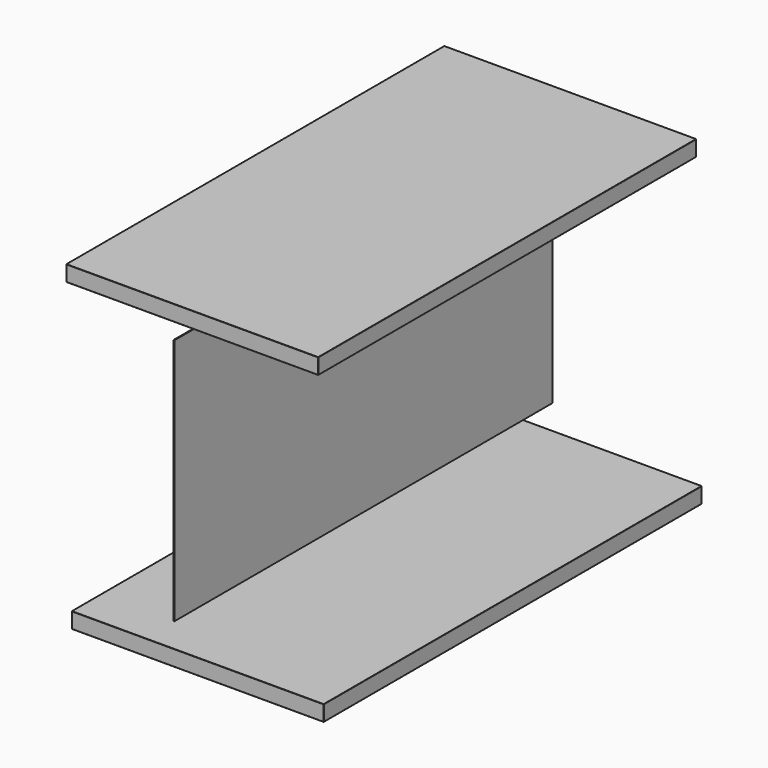
from build123d import *

# Parameters (mm, degrees)
F0_W     = 160
F0_H     = 10
F0_W_2   = 0.57
F0_H_2   = 157
F1_DEPTH = 300
F2_R     = 0.2


with BuildPart() as f1:
    # F0 (on Front) → F1 (new body)
    with BuildSketch(Plane.XZ):
        with Locations((3.251087, -81.963439)):
            Rectangle(F0_W, F0_H)
        with Locations((-11.832677, 17.02495)):
            Rectangle(F0_W_2, F0_H_2)
        with Locations((-0.217361, 110.769269)):
            Rectangle(F0_W, F0_H)
    extrude(amount=F1_DEPTH)

    # F2
    f2_edges = [f1.edges().sort_by_distance(p)[0] for p in [
        (-80.217361, -150, 115.769269),
        (79.782639, -150, 115.769269),
        (79.782639, -150, 105.769269),
        (-0.217361, 0, 115.769269),
        (-0.217361, 0, 105.769269),
        (-80.217361, -150, 105.769269),
        (-0.217361, -300, 115.769269),
        (-0.217361, -300, 105.769269),
        (-80.217361, -300, 110.769269),
        (79.782639, -300, 110.769269),
        (79.782639, 0, 110.769269),
        (-80.217361, 0, 110.769269),
        (3.251087, -300, -86.963439),
        (3.251087, -300, -76.963439),
        (-76.748913, -300, -81.963439),
        (83.251087, -300, -81.963439),
        (83.251087, -150, -86.963439),
        (83.251087, -150, -76.963439),
        (83.251087, 0, -81.963439),
        (3.251087, 0, -86.963439),
        (3.251087, 0, -76.963439),
        (-76.748913, 0, -81.963439),
        (-76.748913, -150, -76.963439),
        (-76.748913, -150, -86.963439),
    ]]
    fillet(f2_edges, radius=F2_R)


solid = f1.part
